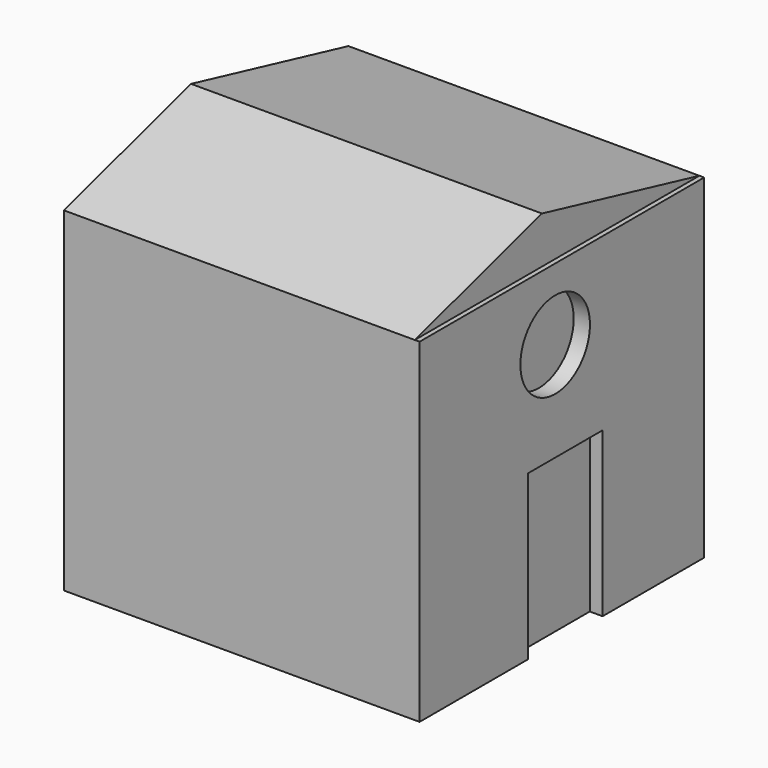
from build123d import *

# Parameters (mm, degrees)
F0_W     = 105.55254668
F0_H     = 105.5525541306
F1_DEPTH = 99.314
F3_DEPTH = 104.14
F4_W     = 27.6781544089
F4_H     = 48.5944971442
F5_DEPTH = 3.81
F6_R     = 12.9022285529
F7_DEPTH = 4.826


with BuildPart() as f1:
    # F0 (on Top) → F1 (new body)
    with BuildSketch(Plane.XY):
        with Locations((0.8764155209, -6.7373067141)):
            Rectangle(F0_W, F0_H)
    extrude(amount=F1_DEPTH)

    # F2 (on face) → F3 (join)
    with BuildSketch(Plane(origin=(-51.8998578191, 0, 0), x_dir=(0, -1, 0), z_dir=(-1, 0, 0))):
        Polygon((12.3477084562, 113.1768599153), (-46.0389703512, 99.314), (59.5135837793, 99.314), align=None)
    extrude(amount=-F3_DEPTH)

    # F4 (on face) → F5 (cut)
    with BuildSketch(Plane.YZ.offset(53.6526888609)):
        with Locations((-5.462795496, 24.2972485721)):
            Rectangle(F4_W, F4_H)
    extrude(amount=-F5_DEPTH, mode=Mode.SUBTRACT)

    # F6 (on face) → F7 (cut)
    with BuildSketch(Plane.YZ.offset(53.6526888609)):
        with Locations((-9.2169223353, 78.1042650342)):
            Circle(F6_R)
    extrude(amount=-F7_DEPTH, mode=Mode.SUBTRACT)


solid = f1.part
